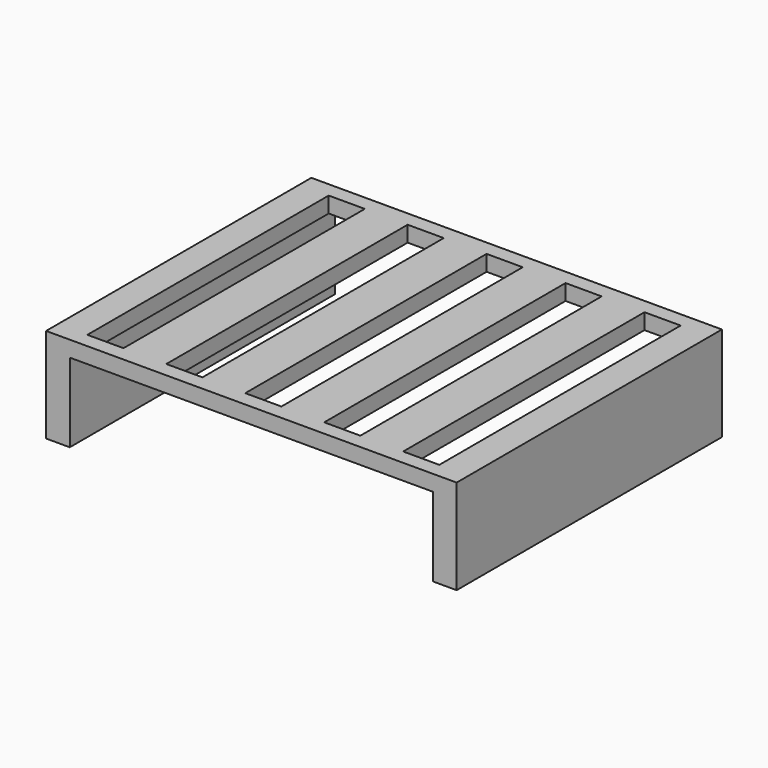
from build123d import *

# Parameters (mm, degrees)
F0_W     = 130
F0_H     = 105
F1_DEPTH = 5
F4_DEPTH = 25
F5_W     = 11.439742
F5_H     = 95.512622
F6_DEPTH = 25


with BuildPart() as f1:
    # F0 (on Top) → F1 (new body)
    with BuildSketch(Plane.XY):
        Rectangle(F0_W, F0_H)
    extrude(amount=F1_DEPTH)

    # F3 (on face) → F4 (join)
    with BuildSketch(Plane(origin=(0, 0, 0), x_dir=(1, 0, 0), z_dir=(0, 0, -1))):
        Polygon((57.5, 33.844031), (57.5, -33.844031), (57.5, -52.5), (65, -52.5), (65, 52.5), (57.5, 52.5), align=None)
        Polygon((-57.5, -52.5), (-57.5, -33.844031), (-57.5, 33.844031), (-57.5, 52.5), (-65, 52.5), (-65, -52.5), align=None)
    extrude(amount=F4_DEPTH)

    # F5 (on face) → F6 (cut)
    with BuildSketch(Plane.XY.offset(5)):
        Rectangle(F5_W, F5_H)
        with Locations((25, 0)):
            Rectangle(F5_W, F5_H)
        with Locations((50, 0)):
            Rectangle(F5_W, F5_H)
        with Locations((-25, 0)):
            Rectangle(F5_W, F5_H)
        with Locations((-50, 0)):
            Rectangle(F5_W, F5_H)
    extrude(amount=-F6_DEPTH, mode=Mode.SUBTRACT)


solid = f1.part
